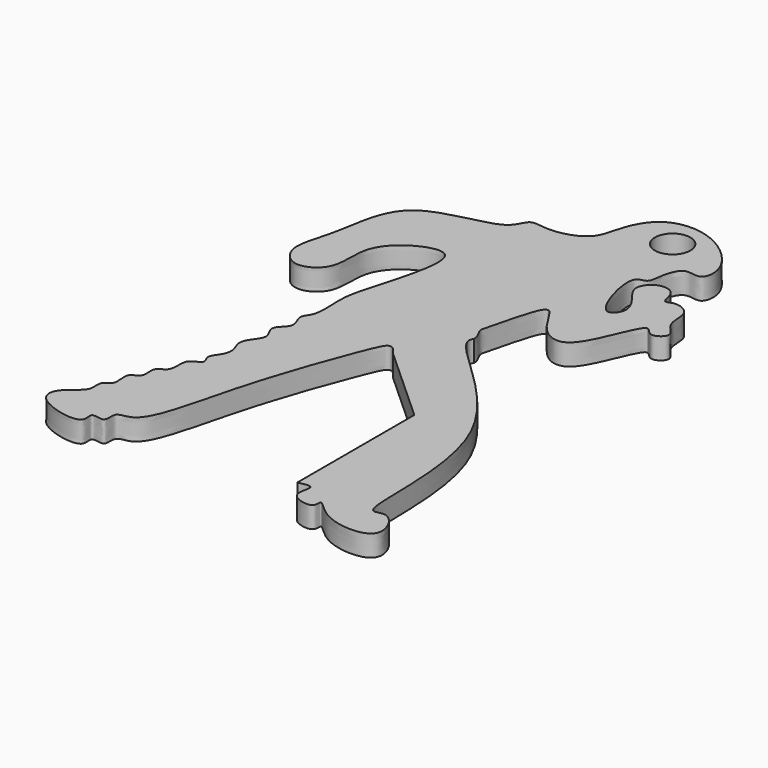
from build123d import *

# Parameters (mm, degrees)
F0_R     = 2.5
F1_DEPTH = 3


with BuildPart() as f1:
    # F0 (on Top) → F1 (new body)
    with BuildSketch(Plane.XY):
        with BuildLine():
            add(Edge.make_bspline(
                [(13.559604995, -38.071192801), (14.385552219, -37.8837790612), (16.1436514001, -37.4848526167), (14.2348716829, -40.931922783), (18.8320874427, -41.9401520213), (18.1341390247, -39.1434991145), (21.0694698272, -43.3430159383), (30.0467491443, -43.5729351569), (26.388795742, -36.9577144002), (22.322796067, -40.3018150227), (26.8015743577, -14.2517304378), (7.6222673568, -2.4937863949), (7.1729719639, 0)],
                knots=[0, 0, 0, 0, 0.0564558005, 0.1204707373, 0.1925227547, 0.2358511314, 0.3145472315, 0.4212814088, 0.5080969775, 0.5645528644, 0.7564731395, 0.9531510152, 0.9531510152, 0.9531510152, 0.9531510152], degree=3))
            add(Edge.make_bspline(
                [(7.1729719639, 0), (7.1131902155, 0.3318149111), (7.2173086368, 0.6024239632), (7.3602118694, 0.8018787941)],
                knots=[0.9531510152, 0.9531510152, 0.9531510152, 0.9531510152, 0.9793203182, 0.9793203182, 0.9793203182, 0.9793203182], degree=3))
            add(Edge.make_bspline(
                [(7.3602118694, 0.8018787941), (7.3586792131, 1.5424625581), (6.4768085021, 2.624904812), (6.7752576128, 3.7494265365), (7.7055298646, 7.5351825138), (9.3275045265, 13.1563394704), (11.5530888342, 7.1980126084), (17.168721086, 4.4176673715), (20.1750339596, 16.7533423339), (21.7168679517, 13.0214044123), (24.476537642, 15.015996958), (21.418603677, 16.7569634165), (22.2725966444, 20.3350224192), (19.3608916815, 21.5283558572), (17.9066066687, 20.3382203383), (17.8537905571, 23.4206619644), (14.8946154487, 23.8213307853), (12.9746989604, 21.2282082107), (15.4391385002, 18.7700579589), (16.5532254179, 16.3568287497), (13.9835930543, 13.2817923163), (10.9895734347, 23.5616193284), (13.9527605108, 23.1163477199), (13.9379524973, 25.3174919116), (14.9757181791, 28.6779350674), (17.8933130683, 27.1632634589), (18.7323462235, 31.2009525675), (13.1400103071, 36.6944173064), (6.0856131695, 36.6372595656), (3.316831377, 31.9371346145), (2.9147597093, 27.3107660308), (-2.4906982988, 25.9248352399), (-5.625871993, 26.9998864696), (-6.0298669859, 22.8649261938), (-19.5794253287, 22.5968672796), (-19.9192994228, 11.1471754253), (-22.5517947394, 5.3850475007), (-19.3723878938, 1.573298029), (-14.6804585816, 4.0987300468), (-16.0841720145, 10.2761263781), (-12.027921377, 14.3668640886), (-5.6965966058, 15.8685401017), (-8.561116311, 5.09280825), (-10.0759123801, 0.2340408045), (-9.8925052419, -2.7461265203), (-9.8383949808, -5.8102784572), (-11.3090096622, -7.0184336983), (-9.5213191375, -9.3848619057), (-12.3040101666, -10.875323225), (-10.4193496002, -12.875731505), (-11.4902890661, -14.3433702222), (-12.576588246, -15.9517455209), (-11.5303684878, -17.7206136992), (-11.8096548461, -19.3284873925), (-13.2305958273, -20.7902438754), (-12.0920363344, -22.027993421), (-13.2192308425, -22.58272999), (-14.3649179139, -23.1974735942), (-13.7979206983, -26.1710929311), (-16.0888660156, -26.4778798953), (-15.1801103986, -29.1626811512), (-17.5694186163, -29.4052940976), (-16.4566402087, -32.4124826964), (-18.5670704057, -32.8778991146), (-17.613040605, -35.3246619616), (-21.099954781, -36.962570329), (-21.3892381333, -40.5741524377), (-13.1735023832, -42.5095808018), (-14.7578267838, -38.9610852331), (-11.8329068221, -40.3560515622), (-12.700715204, -37.3046734375), (-8.6412372115, -38.1727601849), (-6.0293486521, -23.9773489415), (-0.7691548337, -9.7245005927), (1.1657961408, -5.3381223268), (2.4838267996, -7.4146651408)],
                knots=[0.0031100576, 0.0031100576, 0.0031100576, 0.0031100576, 0.0123632344, 0.0203814491, 0.0362885947, 0.051168338, 0.0670884087, 0.0830256244, 0.1060438891, 0.1156734972, 0.1263167493, 0.138417253, 0.1520731491, 0.164093387, 0.172255286, 0.1834090205, 0.1951404672, 0.2070767754, 0.2205830099, 0.2329306458, 0.2431632743, 0.2647323703, 0.2741305545, 0.2846869964, 0.2977712653, 0.3088101411, 0.3212847053, 0.3421018863, 0.3612743699, 0.3781533893, 0.3938820871, 0.4109337957, 0.4232997149, 0.4356595801, 0.4610473618, 0.4851539211, 0.504131317, 0.5185406156, 0.533490163, 0.5515748795, 0.5696200048, 0.5848060806, 0.6076597696, 0.6259195683, 0.6389029965, 0.6519155021, 0.6613537299, 0.6726215491, 0.6838875723, 0.6946046018, 0.7042903391, 0.7145597839, 0.7249059338, 0.7345440515, 0.7447353379, 0.752932451, 0.7602877506, 0.7686436789, 0.7806517292, 0.7902660346, 0.8010752828, 0.8105595786, 0.8222841874, 0.8314490531, 0.8418465964, 0.8557999932, 0.8681864872, 0.8871706734, 0.8967786274, 0.9064938988, 0.9164941971, 0.9277053862, 0.9553552393, 0.9877008655, 1, 1, 1, 1], degree=3))
            Line((2.4838267996, -7.4146651408), (13.559604995, -17.4710266292))
            Line((13.559604995, -17.4710266292), (13.559604995, -38.071192801))
        make_face()
        with Locations((10.3038991174, 32.0913662147)):
            Circle(F0_R, mode=Mode.SUBTRACT)
    extrude(amount=F1_DEPTH)


solid = f1.part
